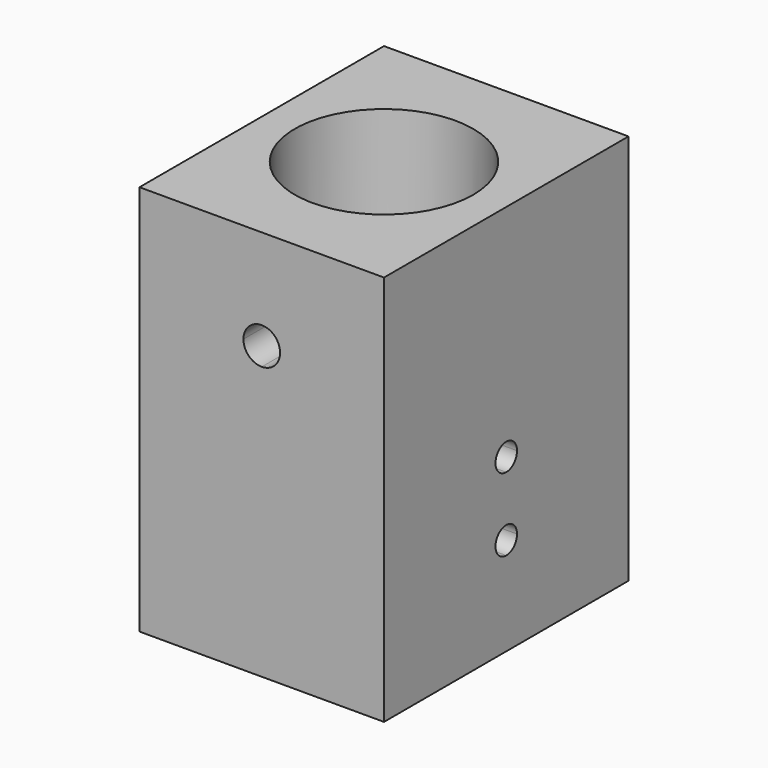
from build123d import *

# Parameters (mm, degrees)
F0_W     = 20
F0_H     = 25
F0_R     = 7.3
F1_DEPTH = 30
F3_DEPTH = 25
F5_DEPTH = 25.001
F6_W     = 20
F6_H     = 25
F7_DEPTH = 2


with BuildPart() as f1:
    # F0 (on Top) → F1 (new body)
    with BuildSketch(Plane.XY):
        Rectangle(F0_W, F0_H)
        Circle(F0_R, mode=Mode.SUBTRACT)
    extrude(amount=F1_DEPTH)

    # F2 (on face) → F3 (cut)
    with BuildSketch(Plane.YZ.offset(10)):
        with BuildLine():
            ThreePointArc((0, 7.1), (-1.1, 6), (0, 4.9))
            Line((0, 4.9), (0, 6))
            Line((0, 6), (0, 7.1))
        make_face()
        with BuildLine():
            ThreePointArc((1.1, 12), (-0.777817, 12.777817), (0, 10.9))
            ThreePointArc((0, 10.9), (0.777817, 11.222183), (1.1, 12))
        make_face()
        with BuildLine():
            Line((0, 6), (0, 4.9))
            ThreePointArc((0, 4.9), (0.777817, 5.222183), (1.1, 6))
            ThreePointArc((1.1, 6), (0.777817, 6.777817), (0, 7.1))
            Line((0, 7.1), (0, 6))
        make_face()
    extrude(amount=-F3_DEPTH, mode=Mode.SUBTRACT)

    # F4 (on face) → F5 (cut, through all)
    with BuildSketch(Plane(origin=(0, 12.5, 0), x_dir=(-1, 0, 0), z_dir=(0, 1, 0))):
        with BuildLine():
            ThreePointArc((0, 20.319805), (1.06066, 20.759145), (1.5, 21.819805))
            ThreePointArc((1.5, 21.819805), (-1.06066, 22.880465), (0, 20.319805))
        make_face()
    extrude(amount=-F5_DEPTH, mode=Mode.SUBTRACT)

    # F6 (on face) → F7 (join)
    with BuildSketch(Plane(origin=(0, 0, 0), x_dir=(1, 0, 0), z_dir=(0, 0, -1))):
        Rectangle(F6_W, F6_H)
    extrude(amount=F7_DEPTH)


solid = f1.part
